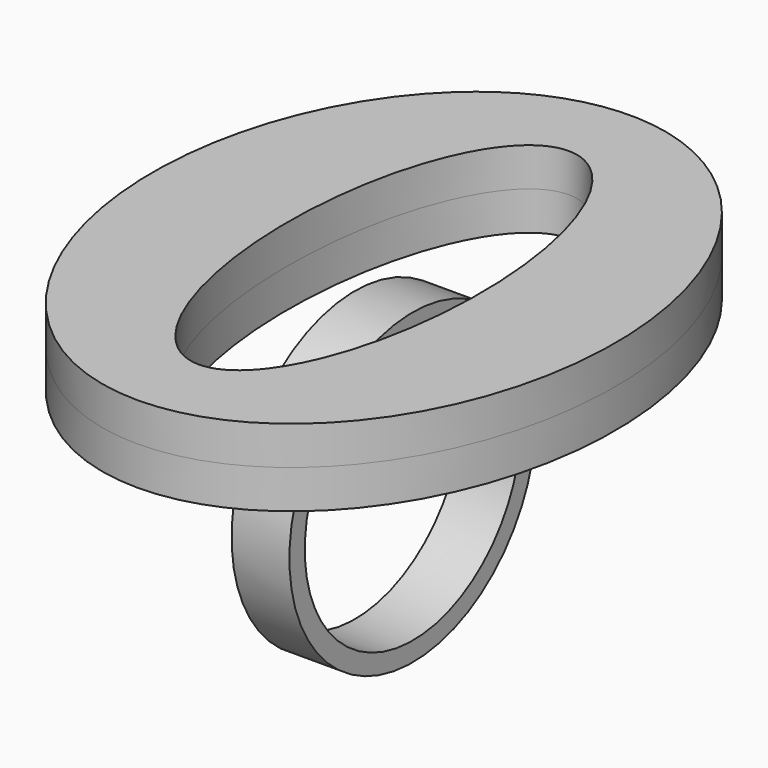
from build123d import *

# Parameters (mm, degrees)
F1_DEPTH = 12.7
F2_R     = 50.8
F2_R_2   = 44.469721
F3_DEPTH = 9.525


with BuildPart() as f1:
    # F0 (on Top) → F1 (new body, symmetric)
    with BuildSketch(Plane.XY):
        with BuildLine():
            add(Edge.make_bspline(
                [(0, -101.6), (131.982272, -101.6), (65.991136, 50.8), (0, 203.2), (-65.991136, 50.8), (-131.982272, -101.6), (0, -101.6)],
                knots=[0, 0, 0, 2.094395, 2.094395, 4.18879, 4.18879, 6.283185, 6.283185, 6.283185], degree=2, weights=[1, 0.5, 1, 0.5, 1, 0.5, 1]))
        make_face()
        with BuildLine():
            add(Edge.make_bspline(
                [(0, -76.2), (54.992613, -76.2), (27.496307, 38.1), (0, 152.4), (-27.496307, 38.1), (-54.992613, -76.2), (0, -76.2)],
                knots=[0, 0, 0, 2.094395, 2.094395, 4.18879, 4.18879, 6.283185, 6.283185, 6.283185], degree=2, weights=[1, 0.5, 1, 0.5, 1, 0.5, 1]))
        make_face(mode=Mode.SUBTRACT)
    extrude(amount=F1_DEPTH, both=True)


with BuildPart() as f3:
    # F2 (on Right) → F3 (new body, symmetric)
    with BuildSketch(Plane.YZ):
        with Locations((0, -50.8)):
            Circle(F2_R)
        with Locations((0, -50.8)):
            Circle(F2_R_2, mode=Mode.SUBTRACT)
    extrude(amount=F3_DEPTH, both=True)


solid = Compound([f1.part, f3.part])
